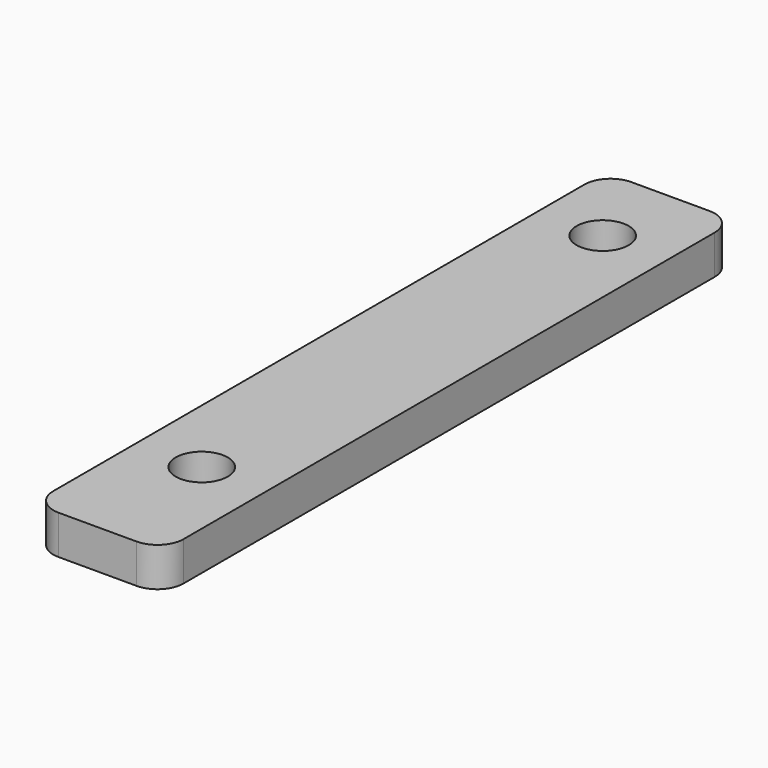
from build123d import *

# Parameters (mm, degrees)
CYLINDER001_R     = 2
CYLINDER001_DEPTH = 10
CYLINDER_R        = 2
CYLINDER_DEPTH    = 10
BOX_W             = 10
BOX_H             = 55
BOX_DEPTH         = 3
FILLET_R          = 2


with BuildPart() as h_bolt_l:
    # Cylinder001 → Cylinder001 (new body)
    with BuildSketch(Plane(origin=(5, 10, -4), x_dir=(1, 0, 0), z_dir=(0, 0, 1))):
        Circle(CYLINDER001_R)
    extrude(amount=CYLINDER001_DEPTH)


with BuildPart() as fusion:
    # Cylinder → Cylinder (new body)
    with BuildSketch(Plane(origin=(5, 48.5, -4), x_dir=(1, 0, 0), z_dir=(0, 0, 1))):
        Circle(CYLINDER_R)
    extrude(amount=CYLINDER_DEPTH)

    # Fusion: union h_bolt_l
    add(h_bolt_l.part)


with BuildPart() as fillet_body:
    # Box → Box (new body)
    with BuildSketch(Plane.XY):
        with Locations((5, 27.5)):
            Rectangle(BOX_W, BOX_H)
    extrude(amount=BOX_DEPTH)

    # Cut: cut Fusion
    add(fusion.part, mode=Mode.SUBTRACT)

    # Fillet
    fillet_edges = [fillet_body.edges().sort_by_distance(p)[0] for p in [
        (0, 0, 1.5),
        (0, 55, 1.5),
        (10, 0, 1.5),
        (10, 55, 1.5),
    ]]
    fillet(fillet_edges, radius=FILLET_R)


solid = fillet_body.part
